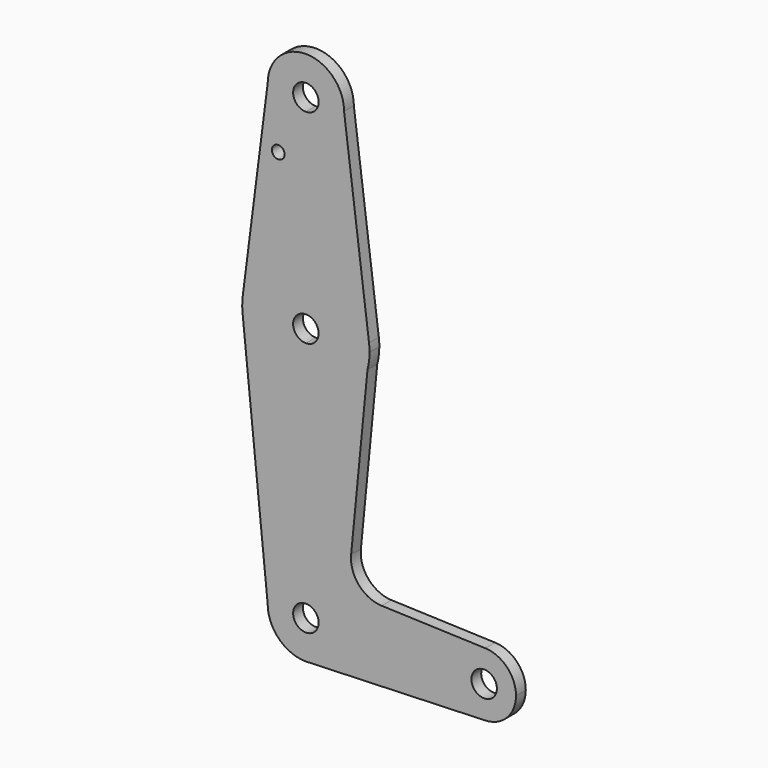
from build123d import *

# Parameters (mm, degrees)
F0_R     = 1.5875
F1_DEPTH = 3.048


with BuildPart() as f1:
    # F0 (on Front) → F1 (new body)
    with BuildSketch(Plane.XZ):
        with BuildLine():
            ThreePointArc((0, 9.525), (-6.7351920908, 6.7351920908), (-9.525, 0))
            ThreePointArc((-9.525, 0), (-6.7351920908, -6.7351920908), (0, -9.525))
            Line((0, -9.525), (0.6773435479, -9.500885786))
            ThreePointArc((0.6773435479, -9.500885786), (6.9705567315, -6.4912990883), (9.525, 0))
            Line((9.525, 0), (3.175, 0))
            ThreePointArc((3.175, 0), (-2.2450640303, -2.2450640303), (0, 3.175))
            Line((0, 3.175), (0, 9.525))
        make_face()
        with BuildLine():
            Line((-15.7942028036, 61.9003804205), (-9.525, 0))
            ThreePointArc((-9.525, 0), (-6.7351920908, 6.7351920908), (0, 9.525))
            Line((0, 9.525), (0, 47.625))
            ThreePointArc((0, 47.625), (-10.644756084, 51.722700101), (-15.7942028036, 61.9003804205))
        make_face()
        with BuildLine():
            Line((0.6773435479, -9.500885786), (0, -9.525))
            ThreePointArc((0, -9.525), (0.3388863295, -9.5189695375), (0.6773435479, -9.500885786))
        make_face()
        with BuildLine():
            Line((0, 47.625), (0, 9.525))
            ThreePointArc((0, 9.525), (6.7351920908, 6.7351920908), (9.525, 0))
            Line((9.525, 0), (36.5125, 0))
            ThreePointArc((36.5125, 0), (38.9380895153, 5.7116327839), (44.7324052746, 7.9324746146))
            Line((44.7324052746, 7.9324746146), (18.9089054628, 8.851821087))
            ThreePointArc((18.9089054628, 8.851821087), (13.2101253368, 11.5600328338), (11.2789180648, 17.5667744017))
            Line((11.2789180648, 17.5667744017), (15.3556565956, 59.4726639678))
            ThreePointArc((15.3556565956, 59.4726639678), (9.6974652742, 50.9311976602), (0, 47.625))
        make_face()
        with BuildLine():
            ThreePointArc((-15.7474486838, 65.5083537913), (-15.87366727, 63.7056997834), (-15.7942028036, 61.9003804205))
            ThreePointArc((-15.7942028036, 61.9003804205), (-10.644756084, 51.722700101), (0, 47.625))
            Line((0, 47.625), (0, 60.325))
            ThreePointArc((0, 60.325), (-3.175, 63.5), (0, 66.675))
            Line((0, 66.675), (0, 79.375))
            ThreePointArc((0, 79.375), (-10.4912584699, 75.4142402493), (-15.7474486838, 65.5083537913))
        make_face()
        with BuildLine():
            ThreePointArc((9.525, 0), (6.9705567315, -6.4912990883), (0.6773435479, -9.500885786))
            Line((0.6773435479, -9.500885786), (44.7324052746, -7.9324746146))
            ThreePointArc((44.7324052746, -7.9324746146), (38.9380895153, -5.7116327839), (36.5125, 0))
            Line((36.5125, 0), (9.525, 0))
        make_face()
        with BuildLine():
            Line((0, 60.325), (0, 47.625))
            ThreePointArc((0, 47.625), (9.6974652742, 50.9311976602), (15.3556565956, 59.4726639678))
            ThreePointArc((15.3556565956, 59.4726639678), (15.7446288215, 61.4696580899), (15.875, 63.5))
            ThreePointArc((15.875, 63.5), (15.8430800802, 64.5062000657), (15.7474486838, 65.5083537913))
            ThreePointArc((15.7474486838, 65.5083537913), (10.4912584699, 75.4142402493), (0, 79.375))
            Line((0, 79.375), (0, 66.675))
            ThreePointArc((0, 66.675), (2.2450640303, 65.7450640303), (3.175, 63.5))
            ThreePointArc((3.175, 63.5), (2.2450640303, 61.2549359697), (0, 60.325))
        make_face()
        with BuildLine():
            Line((-9.5247970268, 114.3), (-15.7474486838, 65.5083537913))
            ThreePointArc((-15.7474486838, 65.5083537913), (-10.4912584699, 75.4142402493), (0, 79.375))
            Line((0, 79.375), (0, 100.0252))
            Line((0, 100.0252), (0, 104.7752029732))
            ThreePointArc((0, 104.7752029732), (-6.7350485671, 107.5649514329), (-9.5247970268, 114.3))
        make_face()
        with Locations((-6.8897465244, 100.0252)):
            Circle(F0_R, mode=Mode.SUBTRACT)
        with BuildLine():
            ThreePointArc((36.5125, 0), (38.9380895153, -5.7116327839), (44.7324052746, -7.9324746146))
            ThreePointArc((44.7324052746, -7.9324746146), (50.1616327839, -5.5119104847), (52.3875, 0))
            ThreePointArc((52.3875, 0), (50.1616327839, 5.5119104847), (44.7324052746, 7.9324746146))
            ThreePointArc((44.7324052746, 7.9324746146), (38.9380895153, 5.7116327839), (36.5125, 0))
        make_face()
        with BuildLine():
            ThreePointArc((47.625, 0), (44.45, -3.175), (41.275, 0))
            ThreePointArc((41.275, 0), (44.45, 3.175), (47.625, 0))
        make_face(mode=Mode.SUBTRACT)
        with BuildLine():
            Line((0, 100.0252), (0, 79.375))
            ThreePointArc((0, 79.375), (10.4912584699, 75.4142402493), (15.7474486838, 65.5083537913))
            Line((15.7474486838, 65.5083537913), (9.5247970268, 114.3))
            ThreePointArc((9.5247970268, 114.3), (6.7350485671, 107.5649514329), (0, 104.7752029732))
            Line((0, 104.7752029732), (0, 100.0252))
        make_face()
        with BuildLine():
            ThreePointArc((9.5247970268, 114.3), (0, 123.8247970268), (-9.5247970268, 114.3))
            ThreePointArc((-9.5247970268, 114.3), (-6.7350485671, 107.5649514329), (0, 104.7752029732))
            ThreePointArc((0, 104.7752029732), (6.7350485671, 107.5649514329), (9.5247970268, 114.3))
        make_face()
        with BuildLine():
            ThreePointArc((3.175, 114.3), (2.2450640303, 112.0549359697), (0, 111.125))
            ThreePointArc((0, 111.125), (-2.2450640303, 116.5450640303), (3.175, 114.3))
        make_face(mode=Mode.SUBTRACT)
        with BuildLine():
            ThreePointArc((9.525, 0), (6.7351920908, 6.7351920908), (0, 9.525))
            Line((0, 9.525), (0, 3.175))
            ThreePointArc((0, 3.175), (2.2450640303, 2.2450640303), (3.175, 0))
            Line((3.175, 0), (9.525, 0))
        make_face()
    extrude(amount=F1_DEPTH)


solid = f1.part
